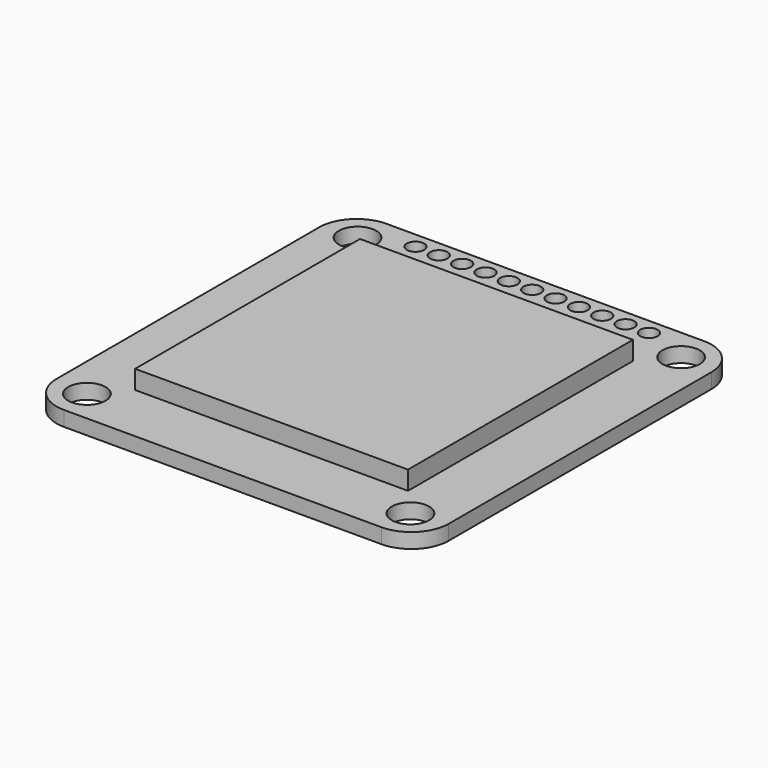
from build123d import *

# Parameters (mm, degrees)
F0_R     = 2
F0_R_2   = 0.932904
F0_W     = 29.224164
F0_H     = 30.101766
F1_DEPTH = 1.6
F2_DEPTH = 2


with BuildPart() as f1:
    # F0 (on Top) → F1 (new body)
    with BuildSketch(Plane.XY):
        with BuildLine():
            Line((17, 21.585), (-17, 21.585))
            ThreePointArc((-17, 21.585), (-19.828427, 20.413427), (-21, 17.585))
            Line((-21, 17.585), (-21, -17.585))
            ThreePointArc((-21, -17.585), (-19.828427, -20.413427), (-17, -21.585))
            Line((-17, -21.585), (17, -21.585))
            ThreePointArc((17, -21.585), (19.828427, -20.413427), (21, -17.585))
            Line((21, -17.585), (21, 17.585))
            ThreePointArc((21, 17.585), (19.828427, 20.413427), (17, 21.585))
        make_face()
        with Locations((-17.324463, -18.112585)):
            Circle(F0_R, mode=Mode.SUBTRACT)
        with Locations((17.324463, -18.112585)):
            Circle(F0_R, mode=Mode.SUBTRACT)
        with Locations((-17.324463, 18.112585)):
            Circle(F0_R, mode=Mode.SUBTRACT)
        with Locations((-12.518941, 19.859364)):
            Circle(F0_R_2, mode=Mode.SUBTRACT)
        with Locations((-10.018941, 19.859361)):
            Circle(F0_R_2, mode=Mode.SUBTRACT)
        with Locations((-7.518941, 19.859357)):
            Circle(F0_R_2, mode=Mode.SUBTRACT)
        with Locations((-5.018941, 19.859354)):
            Circle(F0_R_2, mode=Mode.SUBTRACT)
        with Locations((-2.518941, 19.85935)):
            Circle(F0_R_2, mode=Mode.SUBTRACT)
        with Locations((-0.018941, 19.859347)):
            Circle(F0_R_2, mode=Mode.SUBTRACT)
        Rectangle(F0_W, F0_H, mode=Mode.SUBTRACT)
        with Locations((2.481059, 19.859343)):
            Circle(F0_R_2, mode=Mode.SUBTRACT)
        with Locations((4.981059, 19.85934)):
            Circle(F0_R_2, mode=Mode.SUBTRACT)
        with Locations((7.481059, 19.859336)):
            Circle(F0_R_2, mode=Mode.SUBTRACT)
        with Locations((9.981059, 19.859333)):
            Circle(F0_R_2, mode=Mode.SUBTRACT)
        with Locations((12.481059, 19.859329)):
            Circle(F0_R_2, mode=Mode.SUBTRACT)
        with Locations((17.324463, 18.112585)):
            Circle(F0_R, mode=Mode.SUBTRACT)
        Rectangle(F0_W, F0_H)
    extrude(amount=-F1_DEPTH)

    # F0 (on Top) → F2 (join)
    with BuildSketch(Plane.XY):
        Rectangle(F0_W, F0_H)
    extrude(amount=F2_DEPTH)


solid = f1.part
